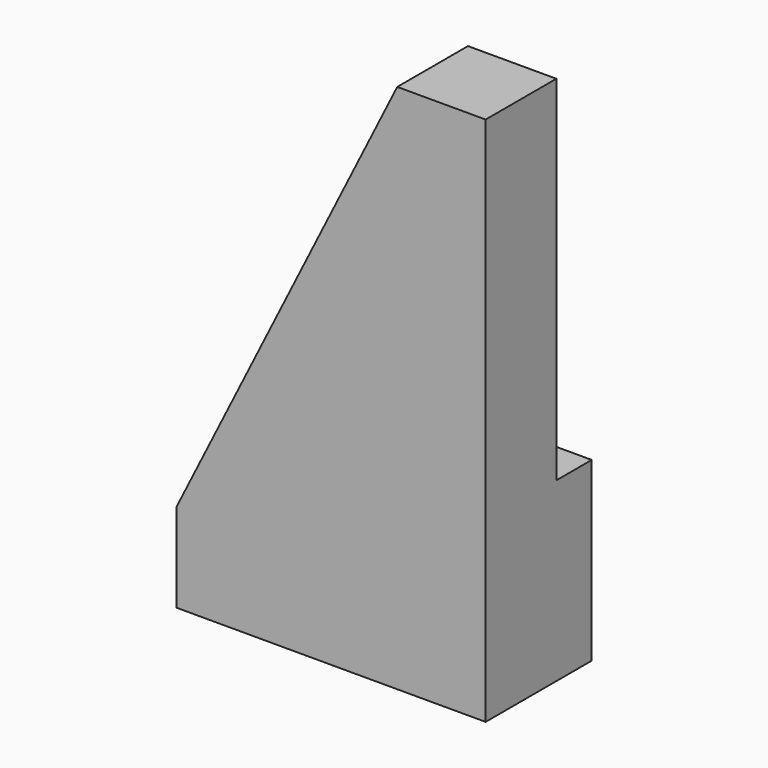
from build123d import *

# Parameters (mm, degrees)
F1_DEPTH = 10
F3_DEPTH = 5


with BuildPart() as f1:
    # F0 (on Front) → F1 (new body)
    with BuildSketch(Plane.XZ):
        Polygon((-54.090908, 0), (-19.090908, 0), (-19.090908, 60), (-29.090908, 60), (-54.090908, 10), align=None)
        Polygon((-54.090908, 0), (-19.090908, 0), (-19.090908, 60), (-29.090908, 60), (-54.090908, 10), align=None)
    extrude(amount=F1_DEPTH)

    # F2 (on face) → F3 (join)
    with BuildSketch(Plane(origin=(0, 0, 0), x_dir=(-1, 0, 0), z_dir=(0, 1, 0))):
        Polygon((34.090908, 20), (19.090908, 20), (19.090908, 0), (42.090908, 0), (42.090908, 10), (34.090908, 10), align=None)
    extrude(amount=F3_DEPTH)


solid = f1.part
